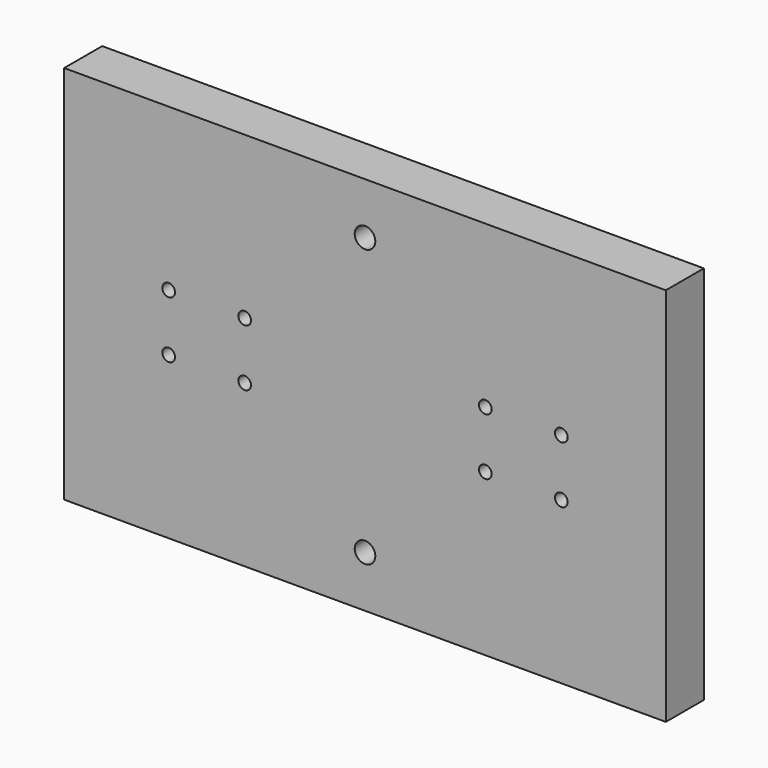
from build123d import *

# Parameters (mm, degrees)
F0_W     = 190
F0_H     = 15
F1_DEPTH = 120
F2_R     = 2
F2_R_2   = 0.903802
F2_R_3   = 1.110636
F2_R_4   = 1.007085
F3_DEPTH = 15.001
F4_R     = 3.25
F5_DEPTH = 15.001


with BuildPart() as f1:
    # F0 (on Top) → F1 (new body)
    with BuildSketch(Plane.XY):
        Rectangle(F0_W, F0_H)
    extrude(amount=F1_DEPTH)

    # F2 (on face) → F3 (cut, through all)
    with BuildSketch(Plane.XZ.offset(7.5)):
        with Locations((-62, 69)):
            Circle(F2_R)
        with Locations((-161.054239, -20.151298)):
            Circle(F2_R_2)
        with Locations((-164.950773, -26.284985)):
            Circle(F2_R_3)
        with Locations((-381.1506, -111.366101)):
            Circle(F2_R_4)
        with Locations((-38, 69)):
            Circle(F2_R)
        with Locations((-62, 51)):
            Circle(F2_R)
        with Locations((-38, 51)):
            Circle(F2_R)
        with Locations((38, 51)):
            Circle(F2_R)
        with Locations((62, 51)):
            Circle(F2_R)
        with Locations((38, 69)):
            Circle(F2_R)
        with Locations((62, 69)):
            Circle(F2_R)
    extrude(amount=-F3_DEPTH, mode=Mode.SUBTRACT)

    # F4 (on face) → F5 (cut, through all)
    with BuildSketch(Plane(origin=(0, 7.5, 0), x_dir=(-1, 0, 0), z_dir=(0, 1, 0))):
        with Locations((0, 103.75)):
            Circle(F4_R)
        with Locations((0, 16.25)):
            Circle(F4_R)
    extrude(amount=-F5_DEPTH, mode=Mode.SUBTRACT)


solid = f1.part
